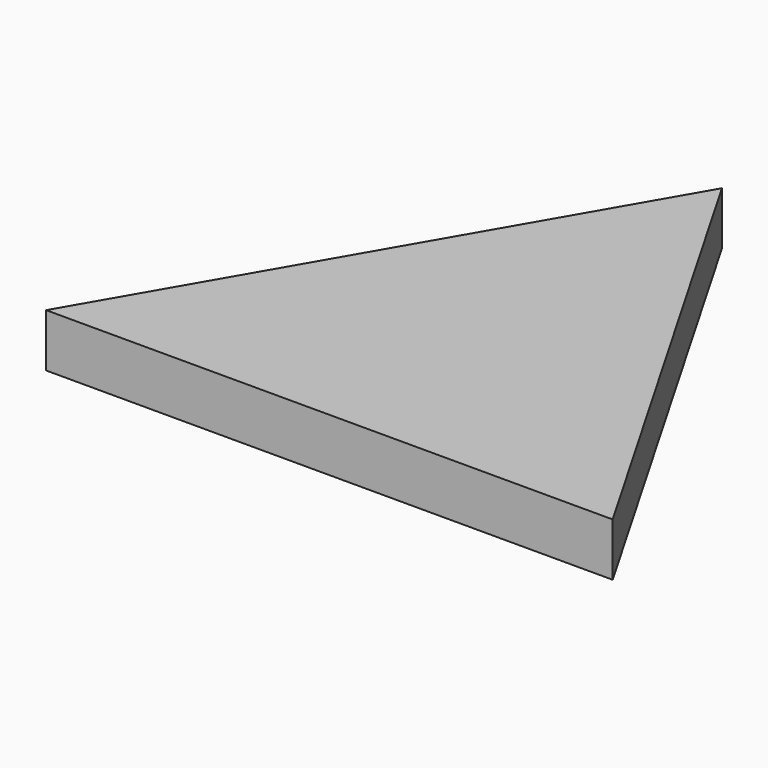
from build123d import *

# Parameters (mm, degrees)
F2_DEPTH = 19.05
F3_DEPTH = 25.4


with BuildPart() as f2:
    # F0 (on Top) → F2 (new body)
    with BuildSketch(Plane.XY):
        Polygon((57.618597, 119.22228), (-43.981403, -56.754082), (159.218597, -56.754082), align=None)
    extrude(amount=F2_DEPTH)

    # F1 (on Top) → F3 (cut)
    with BuildSketch(Plane.XY):
        Polygon((-10.985835, -37.704082), (126.223029, -37.704082), (57.618597, 81.12228), align=None)
    extrude(amount=-F3_DEPTH, mode=Mode.SUBTRACT)


solid = f2.part
